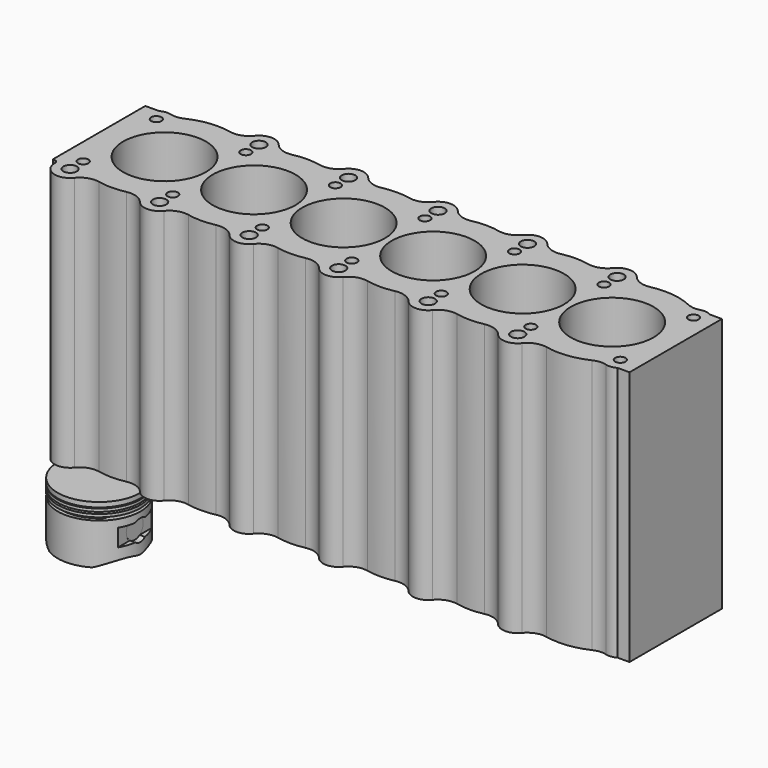
from build123d import *

# Parameters (mm, degrees)
F0_R          = 7
F0_R_2        = 5.4
F0_R_3        = 43
F1_DEPTH      = 265
F4_R          = 11
F5_DEPTH      = 599.001
F5_DEPTH_BACK = 43.001
F6_W          = 6
F6_H          = 17.4374983747
F6_H_2        = 18
F7_DEPTH      = 80.501
F7_DEPTH_BACK = 80.501
F9_START      = -67
F9_DEPTH      = 75
F11_DEPTH     = 74


with BuildPart() as f1:
    # F0 (on Top) → F1 (new body)
    with BuildSketch(Plane.XY):
        with BuildLine():
            ThreePointArc((102.0337065806, 74.5295328097), (93.1627131116, 68.2263119663), (82.30458367, 67.5009547046))
            ThreePointArc((82.30458367, 67.5009547046), (60.2089676355, 68.5587325925), (38.9141131907, 62.5700502518))
            ThreePointArc((38.9141131907, 62.5700502518), (32.1906190405, 60.779293011), (25.2605019654, 61.4003102472))
            ThreePointArc((25.2605019654, 61.4003102472), (19.6667214873, 61.782824997), (14.3508741793, 60))
            Line((14.3508741793, 60), (0, 60))
            Line((0, 60), (0, -60))
            Line((0, -60), (1.5062509769, -60))
            ThreePointArc((1.5062509769, -60), (4.3698151895, -61.2071519912), (5.5050007815, -64.1))
            ThreePointArc((5.5050007815, -64.1), (15.9948451601, -79.5230912328), (33.9662934194, -74.5295328097))
            ThreePointArc((33.9662934194, -74.5295328097), (42.8372868884, -68.2263119663), (53.69541633, -67.5009547046))
            ThreePointArc((53.69541633, -67.5009547046), (68, -69), (82.30458367, -67.5009547046))
            ThreePointArc((82.30458367, -67.5009547046), (93.1627131116, -68.2263119663), (102.0337065806, -74.5295328097))
            ThreePointArc((102.0337065806, -74.5295328097), (114.5, -80.5), (126.9662934194, -74.5295328097))
            ThreePointArc((126.9662934194, -74.5295328097), (135.8372868884, -68.2263119663), (146.69541633, -67.5009547046))
            ThreePointArc((146.69541633, -67.5009547046), (161, -69), (175.30458367, -67.5009547046))
            ThreePointArc((175.30458367, -67.5009547046), (186.1627131116, -68.2263119663), (195.0337065806, -74.5295328097))
            ThreePointArc((195.0337065806, -74.5295328097), (207.5, -80.5), (219.9662934194, -74.5295328097))
            ThreePointArc((219.9662934194, -74.5295328097), (228.8372868884, -68.2263119663), (239.69541633, -67.5009547046))
            ThreePointArc((239.69541633, -67.5009547046), (254, -69), (268.30458367, -67.5009547046))
            ThreePointArc((268.30458367, -67.5009547046), (279.1627131116, -68.2263119663), (288.0337065806, -74.5295328097))
            ThreePointArc((288.0337065806, -74.5295328097), (300.5, -80.5), (312.9662934194, -74.5295328097))
            ThreePointArc((312.9662934194, -74.5295328097), (321.8372868884, -68.2263119663), (332.69541633, -67.5009547046))
            ThreePointArc((332.69541633, -67.5009547046), (347, -69), (361.30458367, -67.5009547046))
            ThreePointArc((361.30458367, -67.5009547046), (372.1627131116, -68.2263119663), (381.0337065806, -74.5295328097))
            ThreePointArc((381.0337065806, -74.5295328097), (393.5, -80.5), (405.9662934194, -74.5295328097))
            ThreePointArc((405.9662934194, -74.5295328097), (414.8372868884, -68.2263119663), (425.69541633, -67.5009547046))
            ThreePointArc((425.69541633, -67.5009547046), (440, -69), (454.30458367, -67.5009547046))
            ThreePointArc((454.30458367, -67.5009547046), (465.1627131116, -68.2263119663), (474.0337065806, -74.5295328097))
            ThreePointArc((474.0337065806, -74.5295328097), (486.5, -80.5), (498.9662934194, -74.5295328097))
            ThreePointArc((498.9662934194, -74.5295328097), (507.8372868884, -68.2263119663), (518.69541633, -67.5009547046))
            ThreePointArc((518.69541633, -67.5009547046), (540.7910323645, -68.5587325925), (562.0858868093, -62.5700502518))
            ThreePointArc((562.0858868093, -62.5700502518), (568.8093809595, -60.779293011), (575.7394980346, -61.4003102472))
            ThreePointArc((575.7394980346, -61.4003102472), (581.3332785127, -61.782824997), (586.6491258207, -60))
            Line((586.6491258207, -60), (599, -60))
            Line((599, -60), (599, 60))
            Line((599, 60), (586.6491258207, 60))
            ThreePointArc((586.6491258207, 60), (581.3332785127, 61.782824997), (575.7394980346, 61.4003102472))
            ThreePointArc((575.7394980346, 61.4003102472), (568.8093809595, 60.779293011), (562.0858868093, 62.5700502518))
            ThreePointArc((562.0858868093, 62.5700502518), (540.7910323645, 68.5587325925), (518.69541633, 67.5009547046))
            ThreePointArc((518.69541633, 67.5009547046), (507.8372868884, 68.2263119663), (498.9662934194, 74.5295328097))
            ThreePointArc((498.9662934194, 74.5295328097), (486.5, 80.5), (474.0337065806, 74.5295328097))
            ThreePointArc((474.0337065806, 74.5295328097), (465.1627131116, 68.2263119663), (454.30458367, 67.5009547046))
            ThreePointArc((454.30458367, 67.5009547046), (440, 69), (425.69541633, 67.5009547046))
            ThreePointArc((425.69541633, 67.5009547046), (414.8372868884, 68.2263119663), (405.9662934194, 74.5295328097))
            ThreePointArc((405.9662934194, 74.5295328097), (393.5, 80.5), (381.0337065806, 74.5295328097))
            ThreePointArc((381.0337065806, 74.5295328097), (372.1627131116, 68.2263119663), (361.30458367, 67.5009547046))
            ThreePointArc((361.30458367, 67.5009547046), (347, 69), (332.69541633, 67.5009547046))
            ThreePointArc((332.69541633, 67.5009547046), (321.8372868884, 68.2263119663), (312.9662934194, 74.5295328097))
            ThreePointArc((312.9662934194, 74.5295328097), (300.5, 80.5), (288.0337065806, 74.5295328097))
            ThreePointArc((288.0337065806, 74.5295328097), (279.1627131116, 68.2263119663), (268.30458367, 67.5009547046))
            ThreePointArc((268.30458367, 67.5009547046), (254, 69), (239.69541633, 67.5009547046))
            ThreePointArc((239.69541633, 67.5009547046), (228.8372868884, 68.2263119663), (219.9662934194, 74.5295328097))
            ThreePointArc((219.9662934194, 74.5295328097), (207.5, 80.5), (195.0337065806, 74.5295328097))
            ThreePointArc((195.0337065806, 74.5295328097), (186.1627131116, 68.2263119663), (175.30458367, 67.5009547046))
            ThreePointArc((175.30458367, 67.5009547046), (161, 69), (146.69541633, 67.5009547046))
            ThreePointArc((146.69541633, 67.5009547046), (135.8372868884, 68.2263119663), (126.9662934194, 74.5295328097))
            ThreePointArc((126.9662934194, 74.5295328097), (114.5, 80.5), (102.0337065806, 74.5295328097))
        make_face()
        with Locations((21.5, -64.5)):
            Circle(F0_R, mode=Mode.SUBTRACT)
        with Locations((114.5, -64.5)):
            Circle(F0_R, mode=Mode.SUBTRACT)
        with Locations((21.5, -47.5)):
            Circle(F0_R_2, mode=Mode.SUBTRACT)
        with Locations((114.5, -47.5)):
            Circle(F0_R_2, mode=Mode.SUBTRACT)
        with Locations((207.5, -64.5)):
            Circle(F0_R, mode=Mode.SUBTRACT)
        with Locations((207.5, -47.5)):
            Circle(F0_R_2, mode=Mode.SUBTRACT)
        with Locations((300.5, -64.5)):
            Circle(F0_R, mode=Mode.SUBTRACT)
        with Locations((393.5, -64.5)):
            Circle(F0_R, mode=Mode.SUBTRACT)
        with Locations((300.5, -47.5)):
            Circle(F0_R_2, mode=Mode.SUBTRACT)
        with Locations((393.5, -47.5)):
            Circle(F0_R_2, mode=Mode.SUBTRACT)
        with Locations((486.5, -64.5)):
            Circle(F0_R, mode=Mode.SUBTRACT)
        with Locations((486.5, -47.5)):
            Circle(F0_R_2, mode=Mode.SUBTRACT)
        with Locations((579.5, -47.5)):
            Circle(F0_R_2, mode=Mode.SUBTRACT)
        with Locations((68, 0)):
            Circle(F0_R_3, mode=Mode.SUBTRACT)
        with Locations((161, 0)):
            Circle(F0_R_3, mode=Mode.SUBTRACT)
        with Locations((254, 0)):
            Circle(F0_R_3, mode=Mode.SUBTRACT)
        with Locations((21.5, 47.5)):
            Circle(F0_R_2, mode=Mode.SUBTRACT)
        with Locations((114.5, 47.5)):
            Circle(F0_R_2, mode=Mode.SUBTRACT)
        with Locations((114.5, 64.5)):
            Circle(F0_R, mode=Mode.SUBTRACT)
        with Locations((207.5, 47.5)):
            Circle(F0_R_2, mode=Mode.SUBTRACT)
        with Locations((207.5, 64.5)):
            Circle(F0_R, mode=Mode.SUBTRACT)
        with Locations((347, 0)):
            Circle(F0_R_3, mode=Mode.SUBTRACT)
        with Locations((440, 0)):
            Circle(F0_R_3, mode=Mode.SUBTRACT)
        with Locations((533, 0)):
            Circle(F0_R_3, mode=Mode.SUBTRACT)
        with Locations((300.5, 47.5)):
            Circle(F0_R_2, mode=Mode.SUBTRACT)
        with Locations((393.5, 47.5)):
            Circle(F0_R_2, mode=Mode.SUBTRACT)
        with Locations((300.5, 64.5)):
            Circle(F0_R, mode=Mode.SUBTRACT)
        with Locations((393.5, 64.5)):
            Circle(F0_R, mode=Mode.SUBTRACT)
        with Locations((486.5, 47.5)):
            Circle(F0_R_2, mode=Mode.SUBTRACT)
        with Locations((579.5, 47.5)):
            Circle(F0_R_2, mode=Mode.SUBTRACT)
        with Locations((486.5, 64.5)):
            Circle(F0_R, mode=Mode.SUBTRACT)
    extrude(amount=F1_DEPTH)


with BuildPart() as f3:
    # F2 (on Front) → F3 (revolve)
    with BuildSketch(Plane.XZ):
        Polygon((43, -50.456402186), (0, -50.456402186), (0, -110.456402186), (43, -110.456402186), (43, -67.456402186), (35, -67.456402186), (35, -64.456402186), (43, -64.456402186), (43, -61.456402186), (35, -61.456402186), (35, -59.456402186), (43, -59.456402186), (43, -56.456402186), (35, -56.456402186), (35, -55.456402186), (43, -55.456402186), align=None)
    revolve(axis=Axis((0, 0, -57.3653315336), (0, 0, -1)))

    # F4 (on Right) → F5 (cut, two sides)
    with BuildSketch(Plane.YZ) as f5_sk:
        with Locations((0, -84.456402186)):
            Circle(F4_R)
        with BuildLine():
            ThreePointArc((5.361647167, -105.9138848197), (0, -106.5736086397), (-5.361647167, -105.9138848197))
            ThreePointArc((-5.361647167, -105.9138848197), (-57.2003580031, -149.2846132535), (0, -185.2900443765))
            ThreePointArc((0, -185.2900443765), (57.2003580031, -149.2846132535), (5.361647167, -105.9138848197))
        make_face()
    extrude(amount=F5_DEPTH, mode=Mode.SUBTRACT)
    extrude(f5_sk.sketch, amount=-F5_DEPTH_BACK, mode=Mode.SUBTRACT)

    # F6 (on Front) → F7 (cut, two sides)
    with BuildSketch(Plane.XZ) as f7_sk:
        with Locations((-40, -85.2405156573)):
            Rectangle(F6_W, F6_H)
        with Locations((40, -84.456402186)):
            Rectangle(F6_W, F6_H_2)
    extrude(amount=-F7_DEPTH, mode=Mode.SUBTRACT)
    extrude(f7_sk.sketch, amount=F7_DEPTH_BACK, mode=Mode.SUBTRACT)

    # F8 (on Top) → F9 (cut)
    with BuildSketch(Plane.XY.offset(F9_START)):
        with BuildLine():
            ThreePointArc((28.1490366906, 25.3342461288), (27.8259620114, 26.9091176109), (26.9089265981, 28.2295885436))
            ThreePointArc((26.9089265981, 28.2295885436), (0, 39), (-26.9089265981, 28.2295885436))
            ThreePointArc((-26.9089265981, 28.2295885436), (-27.8259620114, 26.9091176109), (-28.1490366906, 25.3342461288))
            Line((-28.1490366906, 25.3342461288), (-28.1490366906, 16))
            ThreePointArc((-28.1490366906, 16), (-26.9774638153, 13.1715728753), (-24.1490366906, 12))
            Line((-24.1490366906, 12), (-20, 12))
            ThreePointArc((-20, 12), (-17.1715728753, 10.8284271247), (-16, 8))
            Line((-16, 8), (-16, -8))
            ThreePointArc((-16, -8), (-17.1715728753, -10.8284271247), (-20, -12))
            Line((-20, -12), (-24.1490366906, -12))
            ThreePointArc((-24.1490366906, -12), (-26.9774638153, -13.1715728753), (-28.1490366906, -16))
            Line((-28.1490366906, -16), (-28.1490366906, -25.3342461288))
            ThreePointArc((-28.1490366906, -25.3342461288), (-27.8259620114, -26.9091176109), (-26.9089265981, -28.2295885436))
            ThreePointArc((-26.9089265981, -28.2295885436), (0, -39), (26.9089265981, -28.2295885436))
            ThreePointArc((26.9089265981, -28.2295885436), (27.8259620114, -26.9091176109), (28.1490366906, -25.3342461288))
            Line((28.1490366906, -25.3342461288), (28.1490366906, -16))
            ThreePointArc((28.1490366906, -16), (26.9774638153, -13.1715728753), (24.1490366906, -12))
            Line((24.1490366906, -12), (20, -12))
            ThreePointArc((20, -12), (17.1715728753, -10.8284271247), (16, -8))
            Line((16, -8), (16, 8))
            ThreePointArc((16, 8), (17.1715728753, 10.8284271247), (20, 12))
            Line((20, 12), (24.1490366906, 12))
            ThreePointArc((24.1490366906, 12), (26.9774638153, 13.1715728753), (28.1490366906, 16))
            Line((28.1490366906, 16), (28.1490366906, 25.3342461288))
        make_face()
    extrude(amount=-F9_DEPTH, mode=Mode.SUBTRACT)


with BuildPart() as f11:
    # F10 (on face) → F11 (new body)
    with BuildSketch(Plane(origin=(-37, 0, 0), x_dir=(0, -1, 0), z_dir=(-1, 0, 0))):
        with BuildLine():
            ThreePointArc((5.5403611156, -93.9592648447), (9.5379235757, -89.9361844686), (11, -84.456402186))
            ThreePointArc((11, -84.456402186), (-9.5379235757, -78.9766199035), (5.5403611156, -93.9592648447))
        make_face()
    extrude(amount=-F11_DEPTH)


solid = Compound([f1.part, f3.part, f11.part])
